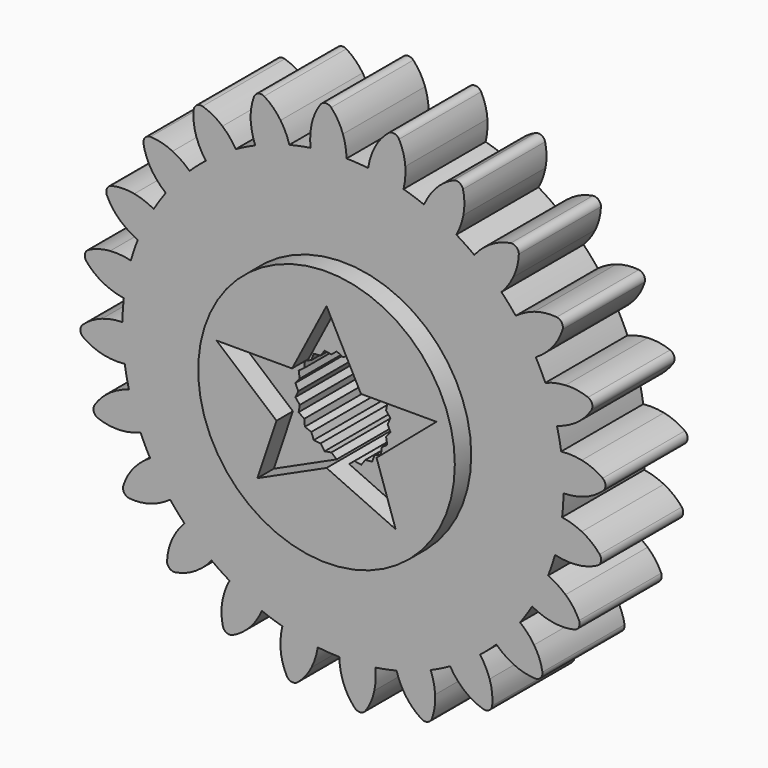
from build123d import *

# Parameters (mm, degrees)
F0_R     = 31.25
F1_DEPTH = 12.5
F2_COUNT = 24
F3_DEPTH = 17.5


with BuildPart() as f1:
    # F0 (on Front) → F1 (new body, symmetric)
    with BuildSketch(Plane.XZ):
        with BuildLine():
            ThreePointArc((-7.884268, 53.13929), (-35.088425, -40.678597), (53.721, 0))
            ThreePointArc((53.721, 0), (38.296609, 37.673805), (0.880747, 53.71378))
            ThreePointArc((0.880747, 53.71378), (-3.513522, 53.605979), (-7.884268, 53.13929))
        make_face()
        Circle(F0_R, mode=Mode.SUBTRACT)
        with BuildLine():
            ThreePointArc((-7.884268, 53.13929), (-3.513522, 53.605979), (0.880747, 53.71378))
            ThreePointArc((0.880747, 53.71378), (0.636998, 56.228803), (0, 58.674))
            ThreePointArc((0, 58.674), (-1.181678, 61.202755), (-2.856441, 63.435721))
            ThreePointArc((-2.856441, 63.435721), (-4.190429, 63.933592), (-5.44802, 63.26586))
            ThreePointArc((-5.44802, 63.26586), (-6.816994, 60.833397), (-7.658494, 58.172036))
            ThreePointArc((-7.658494, 58.172036), (-7.970879, 55.664613), (-7.884268, 53.13929))
        make_face()
        Circle(F0_R)
        Polygon((-8.384332, 7.724427), (0, 23.828564), (8.384332, 7.724427), (26.768859, 7.724427), (12.186912, -4.723577), (16.834587, -18.550411), (0, -10.881747), (-16.834587, -18.550411), (-12.186912, -4.723577), (-26.768859, 7.724427), align=None, mode=Mode.SUBTRACT)
    extrude(amount=F1_DEPTH, both=True)



with BuildPart() as f2_1:
    # F2: instance of F1
    add(f1.part.rotate(Axis((0, 0, 0), (0, -1, 0)), 1 * 360 / F2_COUNT))


with BuildPart() as f2_2:
    # F2: instance of F1
    add(f1.part.rotate(Axis((0, 0, 0), (0, -1, 0)), 2 * 360 / F2_COUNT))


with BuildPart() as f2_3:
    # F2: instance of F1
    add(f1.part.rotate(Axis((0, 0, 0), (0, -1, 0)), 3 * 360 / F2_COUNT))


with BuildPart() as f2_4:
    # F2: instance of F1
    add(f1.part.rotate(Axis((0, 0, 0), (0, -1, 0)), 4 * 360 / F2_COUNT))


with BuildPart() as f2_5:
    # F2: instance of F1
    add(f1.part.rotate(Axis((0, 0, 0), (0, -1, 0)), 5 * 360 / F2_COUNT))


with BuildPart() as f2_6:
    # F2: instance of F1
    add(f1.part.rotate(Axis((0, 0, 0), (0, -1, 0)), 6 * 360 / F2_COUNT))


with BuildPart() as f2_7:
    # F2: instance of F1
    add(f1.part.rotate(Axis((0, 0, 0), (0, -1, 0)), 7 * 360 / F2_COUNT))


with BuildPart() as f2_8:
    # F2: instance of F1
    add(f1.part.rotate(Axis((0, 0, 0), (0, -1, 0)), 8 * 360 / F2_COUNT))


with BuildPart() as f2_9:
    # F2: instance of F1
    add(f1.part.rotate(Axis((0, 0, 0), (0, -1, 0)), 9 * 360 / F2_COUNT))


with BuildPart() as f2_10:
    # F2: instance of F1
    add(f1.part.rotate(Axis((0, 0, 0), (0, -1, 0)), 10 * 360 / F2_COUNT))


with BuildPart() as f2_11:
    # F2: instance of F1
    add(f1.part.rotate(Axis((0, 0, 0), (0, -1, 0)), 11 * 360 / F2_COUNT))


with BuildPart() as f2_12:
    # F2: instance of F1
    add(f1.part.rotate(Axis((0, 0, 0), (0, -1, 0)), 12 * 360 / F2_COUNT))


with BuildPart() as f2_13:
    # F2: instance of F1
    add(f1.part.rotate(Axis((0, 0, 0), (0, -1, 0)), 13 * 360 / F2_COUNT))


with BuildPart() as f2_14:
    # F2: instance of F1
    add(f1.part.rotate(Axis((0, 0, 0), (0, -1, 0)), 14 * 360 / F2_COUNT))


with BuildPart() as f2_15:
    # F2: instance of F1
    add(f1.part.rotate(Axis((0, 0, 0), (0, -1, 0)), 15 * 360 / F2_COUNT))


with BuildPart() as f2_16:
    # F2: instance of F1
    add(f1.part.rotate(Axis((0, 0, 0), (0, -1, 0)), 16 * 360 / F2_COUNT))


with BuildPart() as f2_17:
    # F2: instance of F1
    add(f1.part.rotate(Axis((0, 0, 0), (0, -1, 0)), 17 * 360 / F2_COUNT))


with BuildPart() as f2_18:
    # F2: instance of F1
    add(f1.part.rotate(Axis((0, 0, 0), (0, -1, 0)), 18 * 360 / F2_COUNT))


with BuildPart() as f2_19:
    # F2: instance of F1
    add(f1.part.rotate(Axis((0, 0, 0), (0, -1, 0)), 19 * 360 / F2_COUNT))


with BuildPart() as f2_20:
    # F2: instance of F1
    add(f1.part.rotate(Axis((0, 0, 0), (0, -1, 0)), 20 * 360 / F2_COUNT))


with BuildPart() as f2_21:
    # F2: instance of F1
    add(f1.part.rotate(Axis((0, 0, 0), (0, -1, 0)), 21 * 360 / F2_COUNT))


with BuildPart() as f2_22:
    # F2: instance of F1
    add(f1.part.rotate(Axis((0, 0, 0), (0, -1, 0)), 22 * 360 / F2_COUNT))


with BuildPart() as f2_23:
    # F2: instance of F1
    add(f1.part.rotate(Axis((0, 0, 0), (0, -1, 0)), 23 * 360 / F2_COUNT))


with BuildPart() as f1_1:
    add(f1.part)

    add(f2_1.part)  # F3 merges F2_1

    add(f2_2.part)  # F3 merges F2_2

    add(f2_3.part)  # F3 merges F2_3

    add(f2_4.part)  # F3 merges F2_4

    add(f2_5.part)  # F3 merges F2_5

    add(f2_6.part)  # F3 merges F2_6

    add(f2_7.part)  # F3 merges F2_7

    add(f2_8.part)  # F3 merges F2_8

    add(f2_9.part)  # F3 merges F2_9

    add(f2_10.part)  # F3 merges F2_10

    add(f2_11.part)  # F3 merges F2_11

    add(f2_12.part)  # F3 merges F2_12

    add(f2_13.part)  # F3 merges F2_13

    add(f2_14.part)  # F3 merges F2_14

    add(f2_15.part)  # F3 merges F2_15

    add(f2_16.part)  # F3 merges F2_16

    add(f2_17.part)  # F3 merges F2_17

    add(f2_18.part)  # F3 merges F2_18

    add(f2_19.part)  # F3 merges F2_19

    add(f2_20.part)  # F3 merges F2_20

    add(f2_21.part)  # F3 merges F2_21

    add(f2_22.part)  # F3 merges F2_22

    add(f2_23.part)  # F3 merges F2_23
    # F0 (on Front) → F3 (join, symmetric)
    with BuildSketch(Plane.XZ):
        Circle(F0_R)
        Polygon((-8.384332, 7.724427), (0, 23.828564), (8.384332, 7.724427), (26.768859, 7.724427), (12.186912, -4.723577), (16.834587, -18.550411), (0, -10.881747), (-16.834587, -18.550411), (-12.186912, -4.723577), (-26.768859, 7.724427), align=None, mode=Mode.SUBTRACT)
    extrude(amount=F3_DEPTH, both=True)


solid = f1_1.part
